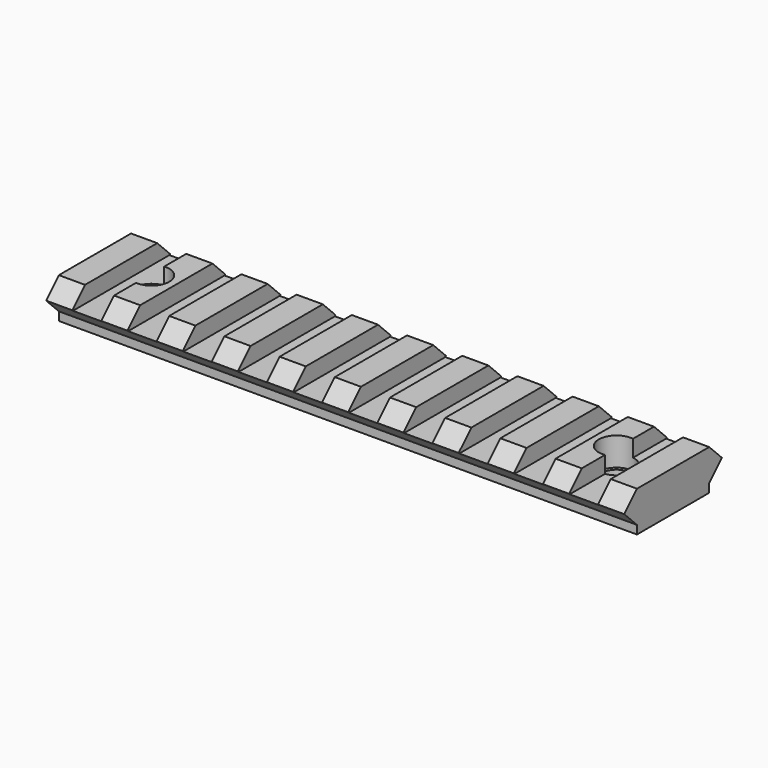
from build123d import *

# Parameters (mm, degrees)
F1_DEPTH = 103.759
F2_W     = 5.207
F2_H     = 2.8575
F2_H_2   = 16.2052
F2_H_3   = 2.9408035447
F3_DEPTH = 2.9972
F4_R     = 2.54
F5_DEPTH = 7.239
F6_R     = 3.175
F7_DEPTH = 5.08


with BuildPart() as f1:
    # F0 (on Right) → F1 (new body)
    with BuildSketch(Plane.YZ):
        Polygon((0, 1.524), (0, 0), (16.2052, 0), (16.2052, 1.524), (19.0627, 4.3815), (16.2052, 7.239), (0, 7.239), (-2.8575, 4.3815), align=None)
    extrude(amount=F1_DEPTH)

    # F2 (on face) → F3 (cut)
    with BuildSketch(Plane.XY.offset(7.239)):
        with Locations((7.3025, -1.42875)):
            Rectangle(F2_W, F2_H)
        Polygon((4.699, 16.2052), (4.699, 8.1026), (4.699, 0), (9.906, 0), (9.906, 16.2052), align=None)
        with Locations((7.3025, 17.63395)):
            Rectangle(F2_W, F2_H)
        with Locations((17.2085, 17.63395)):
            Rectangle(F2_W, F2_H)
        with Locations((17.2085, 8.1026)):
            Rectangle(F2_W, F2_H_2)
        with Locations((17.2085, -1.42875)):
            Rectangle(F2_W, F2_H)
        with Locations((27.1145, 17.63395)):
            Rectangle(F2_W, F2_H)
        with Locations((27.1145, 8.1026)):
            Rectangle(F2_W, F2_H_2)
        with Locations((27.1145, -1.42875)):
            Rectangle(F2_W, F2_H)
        with Locations((37.0205, 17.63395)):
            Rectangle(F2_W, F2_H)
        with Locations((37.0205, 8.1026)):
            Rectangle(F2_W, F2_H_2)
        with Locations((37.0205, -1.42875)):
            Rectangle(F2_W, F2_H)
        with Locations((46.9265, 17.63395)):
            Rectangle(F2_W, F2_H)
        with Locations((46.9265, 8.1026)):
            Rectangle(F2_W, F2_H_2)
        with Locations((46.9265, -1.42875)):
            Rectangle(F2_W, F2_H)
        with Locations((56.8325, 17.63395)):
            Rectangle(F2_W, F2_H)
        with Locations((56.8325, 8.1026)):
            Rectangle(F2_W, F2_H_2)
        with Locations((56.8325, -1.42875)):
            Rectangle(F2_W, F2_H)
        with Locations((66.7385, 17.63395)):
            Rectangle(F2_W, F2_H)
        with Locations((66.7385, 8.1026)):
            Rectangle(F2_W, F2_H_2)
        with Locations((66.7385, -1.42875)):
            Rectangle(F2_W, F2_H)
        with Locations((76.6445, 17.63395)):
            Rectangle(F2_W, F2_H)
        with Locations((76.6445, 8.1026)):
            Rectangle(F2_W, F2_H_2)
        with Locations((76.6445, -1.42875)):
            Rectangle(F2_W, F2_H)
        with Locations((86.5505, -1.42875)):
            Rectangle(F2_W, F2_H)
        with Locations((86.5505, 8.1026)):
            Rectangle(F2_W, F2_H_2)
        with Locations((86.5505, 17.63395)):
            Rectangle(F2_W, F2_H)
        with Locations((96.4565, 17.6756017723)):
            Rectangle(F2_W, F2_H_3)
        with Locations((96.4565, 8.1026)):
            Rectangle(F2_W, F2_H_2)
        with Locations((96.4565, -1.4704017723)):
            Rectangle(F2_W, F2_H_3)
    extrude(amount=-F3_DEPTH, mode=Mode.SUBTRACT)

    # F4 (on face) → F5 (cut)
    with BuildSketch(Plane(origin=(0, 0, 0), x_dir=(1, 0, 0), z_dir=(0, 0, -1))):
        with Locations((93.4012121817, -8.3558605984)):
            Circle(F4_R)
        with Locations((10.16, -8.1026)):
            Circle(F4_R)
    extrude(amount=-F5_DEPTH, mode=Mode.SUBTRACT)

    # F6 (on face) → F7 (cut)
    with BuildSketch(Plane.XY.offset(7.239)):
        with Locations((93.4012121817, 8.3558605984)):
            Circle(F6_R)
        with Locations((10.16, 8.1026)):
            Circle(F6_R)
    extrude(amount=-F7_DEPTH, mode=Mode.SUBTRACT)


solid = f1.part
